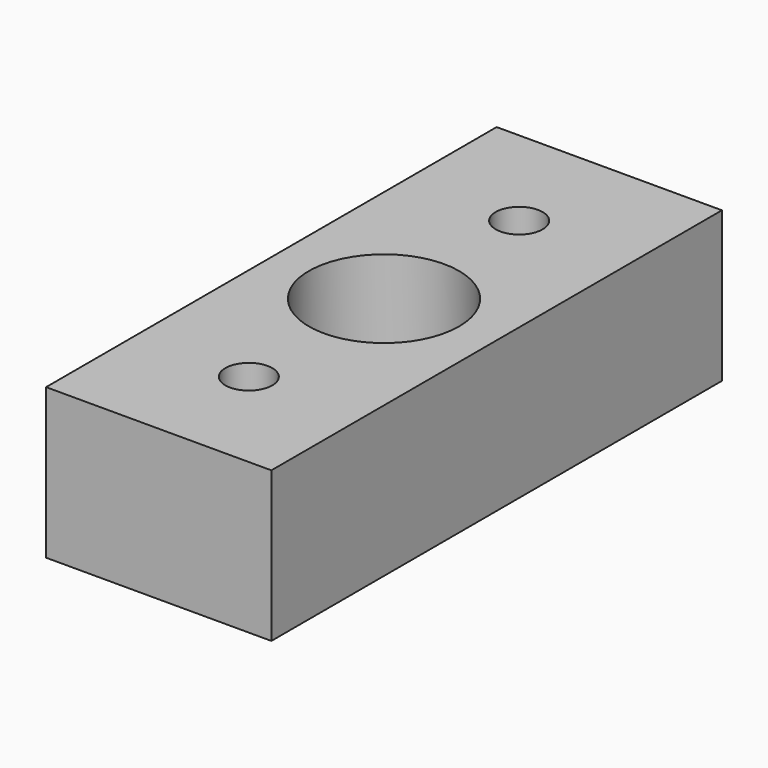
from build123d import *

# Parameters (mm, degrees)
F0_W     = 12
F0_H     = 30
F1_DEPTH = 8
F2_R     = 4
F3_DEPTH = 8.001
F5_D     = 2.5


with BuildPart() as f1:
    # F0 (on Top) → F1 (new body)
    with BuildSketch(Plane.XY):
        Rectangle(F0_W, F0_H)
    extrude(amount=F1_DEPTH)

    # F2 (on Top) → F3 (cut, through all)
    with BuildSketch(Plane.XY):
        Circle(F2_R)
    extrude(amount=F3_DEPTH, mode=Mode.SUBTRACT)

    # F5 (through all)
    with Locations(Plane(origin=(0, 0, 0), x_dir=(1, 0, 0), z_dir=(0, 0, -1))):
        with Locations((0, -9), (0, 9)):
            Hole(F5_D / 2)


solid = f1.part
